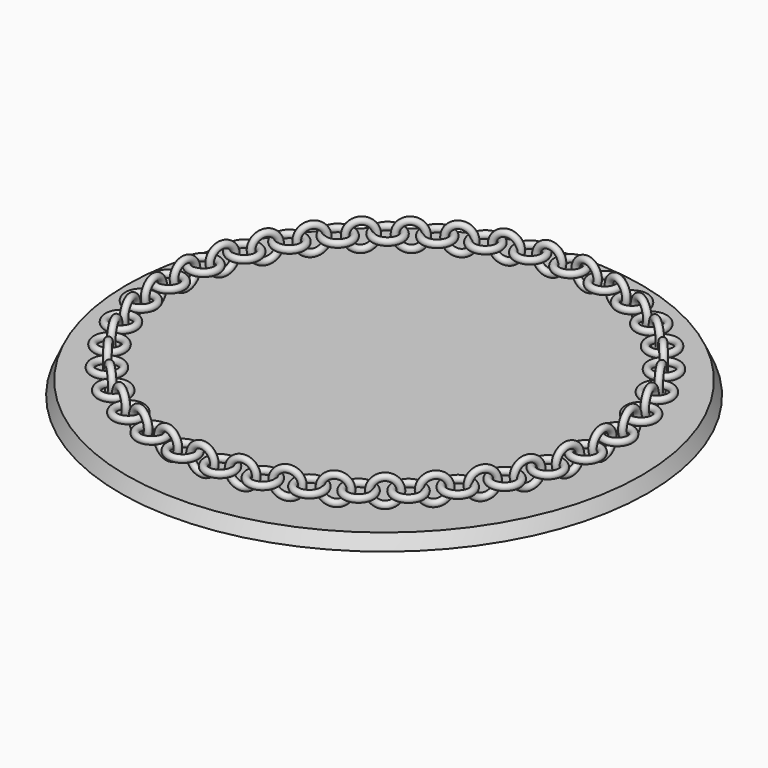
from build123d import *

# Parameters (mm, degrees)
F1_R      = 1.5875
F5_R      = 1.5875
F7_COUNT  = 35
F9_R      = 120.65
F10_DEPTH = 6.35
F10_TAPER = -25


with BuildPart() as f3:
    # F1 (on Front) → F3 (revolve)
    with BuildSketch(Plane.XZ):
        with Locations((101.6, 5.8107818477)):
            Circle(F1_R)
    revolve(axis=Axis((102.0610034466, 0, 0), (1, 0, 0)))


with BuildPart() as f6:
    # F5 (on offset) → F6 (revolve)
    with BuildSketch(Plane.YZ.offset(101.6)):
        with Locations((14.7666325793, 0)):
            Circle(F5_R)
    revolve(axis=Axis((101.6, 8.5649344472, -0.5961660045), (0, 0, -1)))


with BuildPart() as f7_1:
    # F7: instance of F3
    add(f3.part.rotate(Axis((0, 0, 0), (0, 0, 1)), 1 * 360 / F7_COUNT))


with BuildPart() as f7_2:
    # F7: instance of F3
    add(f3.part.rotate(Axis((0, 0, 0), (0, 0, 1)), 2 * 360 / F7_COUNT))


with BuildPart() as f7_3:
    # F7: instance of F3
    add(f3.part.rotate(Axis((0, 0, 0), (0, 0, 1)), 3 * 360 / F7_COUNT))


with BuildPart() as f7_4:
    # F7: instance of F3
    add(f3.part.rotate(Axis((0, 0, 0), (0, 0, 1)), 4 * 360 / F7_COUNT))


with BuildPart() as f7_5:
    # F7: instance of F3
    add(f3.part.rotate(Axis((0, 0, 0), (0, 0, 1)), 5 * 360 / F7_COUNT))


with BuildPart() as f7_6:
    # F7: instance of F3
    add(f3.part.rotate(Axis((0, 0, 0), (0, 0, 1)), 6 * 360 / F7_COUNT))


with BuildPart() as f7_7:
    # F7: instance of F3
    add(f3.part.rotate(Axis((0, 0, 0), (0, 0, 1)), 7 * 360 / F7_COUNT))


with BuildPart() as f7_8:
    # F7: instance of F3
    add(f3.part.rotate(Axis((0, 0, 0), (0, 0, 1)), 8 * 360 / F7_COUNT))


with BuildPart() as f7_9:
    # F7: instance of F3
    add(f3.part.rotate(Axis((0, 0, 0), (0, 0, 1)), 9 * 360 / F7_COUNT))


with BuildPart() as f7_10:
    # F7: instance of F3
    add(f3.part.rotate(Axis((0, 0, 0), (0, 0, 1)), 10 * 360 / F7_COUNT))


with BuildPart() as f7_11:
    # F7: instance of F3
    add(f3.part.rotate(Axis((0, 0, 0), (0, 0, 1)), 11 * 360 / F7_COUNT))


with BuildPart() as f7_12:
    # F7: instance of F3
    add(f3.part.rotate(Axis((0, 0, 0), (0, 0, 1)), 12 * 360 / F7_COUNT))


with BuildPart() as f7_13:
    # F7: instance of F3
    add(f3.part.rotate(Axis((0, 0, 0), (0, 0, 1)), 13 * 360 / F7_COUNT))


with BuildPart() as f7_14:
    # F7: instance of F3
    add(f3.part.rotate(Axis((0, 0, 0), (0, 0, 1)), 14 * 360 / F7_COUNT))


with BuildPart() as f7_15:
    # F7: instance of F3
    add(f3.part.rotate(Axis((0, 0, 0), (0, 0, 1)), 15 * 360 / F7_COUNT))


with BuildPart() as f7_16:
    # F7: instance of F3
    add(f3.part.rotate(Axis((0, 0, 0), (0, 0, 1)), 16 * 360 / F7_COUNT))


with BuildPart() as f7_17:
    # F7: instance of F3
    add(f3.part.rotate(Axis((0, 0, 0), (0, 0, 1)), 17 * 360 / F7_COUNT))


with BuildPart() as f7_18:
    # F7: instance of F3
    add(f3.part.rotate(Axis((0, 0, 0), (0, 0, 1)), 18 * 360 / F7_COUNT))


with BuildPart() as f7_19:
    # F7: instance of F3
    add(f3.part.rotate(Axis((0, 0, 0), (0, 0, 1)), 19 * 360 / F7_COUNT))


with BuildPart() as f7_20:
    # F7: instance of F3
    add(f3.part.rotate(Axis((0, 0, 0), (0, 0, 1)), 20 * 360 / F7_COUNT))


with BuildPart() as f7_21:
    # F7: instance of F3
    add(f3.part.rotate(Axis((0, 0, 0), (0, 0, 1)), 21 * 360 / F7_COUNT))


with BuildPart() as f7_22:
    # F7: instance of F3
    add(f3.part.rotate(Axis((0, 0, 0), (0, 0, 1)), 22 * 360 / F7_COUNT))


with BuildPart() as f7_23:
    # F7: instance of F3
    add(f3.part.rotate(Axis((0, 0, 0), (0, 0, 1)), 23 * 360 / F7_COUNT))


with BuildPart() as f7_24:
    # F7: instance of F3
    add(f3.part.rotate(Axis((0, 0, 0), (0, 0, 1)), 24 * 360 / F7_COUNT))


with BuildPart() as f7_25:
    # F7: instance of F3
    add(f3.part.rotate(Axis((0, 0, 0), (0, 0, 1)), 25 * 360 / F7_COUNT))


with BuildPart() as f7_26:
    # F7: instance of F3
    add(f3.part.rotate(Axis((0, 0, 0), (0, 0, 1)), 26 * 360 / F7_COUNT))


with BuildPart() as f7_27:
    # F7: instance of F3
    add(f3.part.rotate(Axis((0, 0, 0), (0, 0, 1)), 27 * 360 / F7_COUNT))


with BuildPart() as f7_28:
    # F7: instance of F3
    add(f3.part.rotate(Axis((0, 0, 0), (0, 0, 1)), 28 * 360 / F7_COUNT))


with BuildPart() as f7_29:
    # F7: instance of F3
    add(f3.part.rotate(Axis((0, 0, 0), (0, 0, 1)), 29 * 360 / F7_COUNT))


with BuildPart() as f7_30:
    # F7: instance of F3
    add(f3.part.rotate(Axis((0, 0, 0), (0, 0, 1)), 30 * 360 / F7_COUNT))


with BuildPart() as f7_31:
    # F7: instance of F3
    add(f3.part.rotate(Axis((0, 0, 0), (0, 0, 1)), 31 * 360 / F7_COUNT))


with BuildPart() as f7_32:
    # F7: instance of F3
    add(f3.part.rotate(Axis((0, 0, 0), (0, 0, 1)), 32 * 360 / F7_COUNT))


with BuildPart() as f7_33:
    # F7: instance of F3
    add(f3.part.rotate(Axis((0, 0, 0), (0, 0, 1)), 33 * 360 / F7_COUNT))


with BuildPart() as f7_34:
    # F7: instance of F3
    add(f3.part.rotate(Axis((0, 0, 0), (0, 0, 1)), 34 * 360 / F7_COUNT))


with BuildPart() as f7_35:
    # F7: instance of F6
    add(f6.part.rotate(Axis((0, 0, 0), (0, 0, 1)), 1 * 360 / F7_COUNT))


with BuildPart() as f7_36:
    # F7: instance of F6
    add(f6.part.rotate(Axis((0, 0, 0), (0, 0, 1)), 2 * 360 / F7_COUNT))


with BuildPart() as f7_37:
    # F7: instance of F6
    add(f6.part.rotate(Axis((0, 0, 0), (0, 0, 1)), 3 * 360 / F7_COUNT))


with BuildPart() as f7_38:
    # F7: instance of F6
    add(f6.part.rotate(Axis((0, 0, 0), (0, 0, 1)), 4 * 360 / F7_COUNT))


with BuildPart() as f7_39:
    # F7: instance of F6
    add(f6.part.rotate(Axis((0, 0, 0), (0, 0, 1)), 5 * 360 / F7_COUNT))


with BuildPart() as f7_40:
    # F7: instance of F6
    add(f6.part.rotate(Axis((0, 0, 0), (0, 0, 1)), 6 * 360 / F7_COUNT))


with BuildPart() as f7_41:
    # F7: instance of F6
    add(f6.part.rotate(Axis((0, 0, 0), (0, 0, 1)), 7 * 360 / F7_COUNT))


with BuildPart() as f7_42:
    # F7: instance of F6
    add(f6.part.rotate(Axis((0, 0, 0), (0, 0, 1)), 8 * 360 / F7_COUNT))


with BuildPart() as f7_43:
    # F7: instance of F6
    add(f6.part.rotate(Axis((0, 0, 0), (0, 0, 1)), 9 * 360 / F7_COUNT))


with BuildPart() as f7_44:
    # F7: instance of F6
    add(f6.part.rotate(Axis((0, 0, 0), (0, 0, 1)), 10 * 360 / F7_COUNT))


with BuildPart() as f7_45:
    # F7: instance of F6
    add(f6.part.rotate(Axis((0, 0, 0), (0, 0, 1)), 11 * 360 / F7_COUNT))


with BuildPart() as f7_46:
    # F7: instance of F6
    add(f6.part.rotate(Axis((0, 0, 0), (0, 0, 1)), 12 * 360 / F7_COUNT))


with BuildPart() as f7_47:
    # F7: instance of F6
    add(f6.part.rotate(Axis((0, 0, 0), (0, 0, 1)), 13 * 360 / F7_COUNT))


with BuildPart() as f7_48:
    # F7: instance of F6
    add(f6.part.rotate(Axis((0, 0, 0), (0, 0, 1)), 14 * 360 / F7_COUNT))


with BuildPart() as f7_49:
    # F7: instance of F6
    add(f6.part.rotate(Axis((0, 0, 0), (0, 0, 1)), 15 * 360 / F7_COUNT))


with BuildPart() as f7_50:
    # F7: instance of F6
    add(f6.part.rotate(Axis((0, 0, 0), (0, 0, 1)), 16 * 360 / F7_COUNT))


with BuildPart() as f7_51:
    # F7: instance of F6
    add(f6.part.rotate(Axis((0, 0, 0), (0, 0, 1)), 17 * 360 / F7_COUNT))


with BuildPart() as f7_52:
    # F7: instance of F6
    add(f6.part.rotate(Axis((0, 0, 0), (0, 0, 1)), 18 * 360 / F7_COUNT))


with BuildPart() as f7_53:
    # F7: instance of F6
    add(f6.part.rotate(Axis((0, 0, 0), (0, 0, 1)), 19 * 360 / F7_COUNT))


with BuildPart() as f7_54:
    # F7: instance of F6
    add(f6.part.rotate(Axis((0, 0, 0), (0, 0, 1)), 20 * 360 / F7_COUNT))


with BuildPart() as f7_55:
    # F7: instance of F6
    add(f6.part.rotate(Axis((0, 0, 0), (0, 0, 1)), 21 * 360 / F7_COUNT))


with BuildPart() as f7_56:
    # F7: instance of F6
    add(f6.part.rotate(Axis((0, 0, 0), (0, 0, 1)), 22 * 360 / F7_COUNT))


with BuildPart() as f7_57:
    # F7: instance of F6
    add(f6.part.rotate(Axis((0, 0, 0), (0, 0, 1)), 23 * 360 / F7_COUNT))


with BuildPart() as f7_58:
    # F7: instance of F6
    add(f6.part.rotate(Axis((0, 0, 0), (0, 0, 1)), 24 * 360 / F7_COUNT))


with BuildPart() as f7_59:
    # F7: instance of F6
    add(f6.part.rotate(Axis((0, 0, 0), (0, 0, 1)), 25 * 360 / F7_COUNT))


with BuildPart() as f7_60:
    # F7: instance of F6
    add(f6.part.rotate(Axis((0, 0, 0), (0, 0, 1)), 26 * 360 / F7_COUNT))


with BuildPart() as f7_61:
    # F7: instance of F6
    add(f6.part.rotate(Axis((0, 0, 0), (0, 0, 1)), 27 * 360 / F7_COUNT))


with BuildPart() as f7_62:
    # F7: instance of F6
    add(f6.part.rotate(Axis((0, 0, 0), (0, 0, 1)), 28 * 360 / F7_COUNT))


with BuildPart() as f7_63:
    # F7: instance of F6
    add(f6.part.rotate(Axis((0, 0, 0), (0, 0, 1)), 29 * 360 / F7_COUNT))


with BuildPart() as f7_64:
    # F7: instance of F6
    add(f6.part.rotate(Axis((0, 0, 0), (0, 0, 1)), 30 * 360 / F7_COUNT))


with BuildPart() as f7_65:
    # F7: instance of F6
    add(f6.part.rotate(Axis((0, 0, 0), (0, 0, 1)), 31 * 360 / F7_COUNT))


with BuildPart() as f7_66:
    # F7: instance of F6
    add(f6.part.rotate(Axis((0, 0, 0), (0, 0, 1)), 32 * 360 / F7_COUNT))


with BuildPart() as f7_67:
    # F7: instance of F6
    add(f6.part.rotate(Axis((0, 0, 0), (0, 0, 1)), 33 * 360 / F7_COUNT))


with BuildPart() as f7_68:
    # F7: instance of F6
    add(f6.part.rotate(Axis((0, 0, 0), (0, 0, 1)), 34 * 360 / F7_COUNT))


with BuildPart() as f10:
    # F9 (on offset) → F10 (new body)
    with BuildSketch(Plane.XY.offset(-7.62)):
        with Locations((-0.8224893827, 0.1888926054)):
            Circle(F9_R)
    extrude(amount=-F10_DEPTH, taper=F10_TAPER)


solid = Compound([f3.part, f6.part, f7_1.part, f7_2.part, f7_3.part, f7_4.part, f7_5.part, f7_6.part, f7_7.part, f7_8.part, f7_9.part, f7_10.part, f7_11.part, f7_12.part, f7_13.part, f7_14.part, f7_15.part, f7_16.part, f7_17.part, f7_18.part, f7_19.part, f7_20.part, f7_21.part, f7_22.part, f7_23.part, f7_24.part, f7_25.part, f7_26.part, f7_27.part, f7_28.part, f7_29.part, f7_30.part, f7_31.part, f7_32.part, f7_33.part, f7_34.part, f7_35.part, f7_36.part, f7_37.part, f7_38.part, f7_39.part, f7_40.part, f7_41.part, f7_42.part, f7_43.part, f7_44.part, f7_45.part, f7_46.part, f7_47.part, f7_48.part, f7_49.part, f7_50.part, f7_51.part, f7_52.part, f7_53.part, f7_54.part, f7_55.part, f7_56.part, f7_57.part, f7_58.part, f7_59.part, f7_60.part, f7_61.part, f7_62.part, f7_63.part, f7_64.part, f7_65.part, f7_66.part, f7_67.part, f7_68.part, f10.part])
